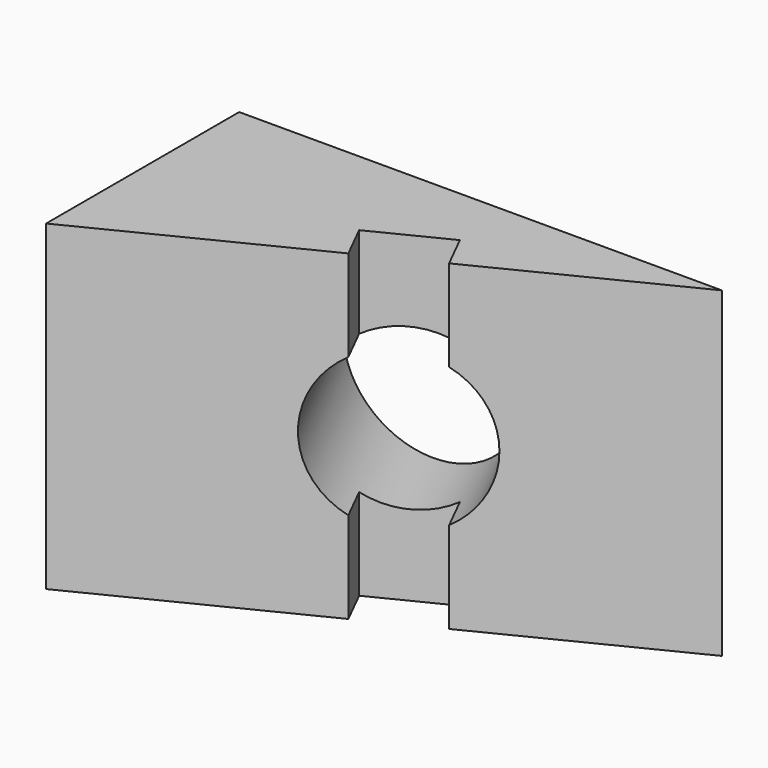
from build123d import *

# Parameters (mm, degrees)
F1_DEPTH = 101.6
F2_W     = 25.4
F2_H     = 101.6
F3_DEPTH = 12.7
F4_R     = 25.4
F5_DEPTH = 25.4
F6_DEPTH = 192.786


with BuildPart() as f1:
    # F0 (on Top) → F1 (new body)
    with BuildSketch(Plane.XY):
        Polygon((152.4, 0), (0, 0), (0, -76.2), align=None)
    extrude(amount=F1_DEPTH)

    # F2 (on face) → F3 (cut)
    with BuildSketch(Plane(origin=(30.48, -60.96, 0), x_dir=(0.894427191, 0.4472135955, 0), z_dir=(0.4472135955, -0.894427191, 0))):
        with Locations((54.8223240229, 50.8)):
            Rectangle(F2_W, F2_H)
    extrude(amount=-F3_DEPTH, mode=Mode.SUBTRACT)

    # F4 (on face) → F5 (join)
    with BuildSketch(Plane(origin=(30.48, -60.96, 0), x_dir=(0.894427191, 0.4472135955, 0), z_dir=(0.4472135955, -0.894427191, 0))):
        with Locations((54.8223240229, 50.8)):
            Circle(F4_R)
    extrude(amount=F5_DEPTH)

    # F6 (cut): a face of the model
    f6_faces = [f1.faces().sort_by_distance(p)[0] for p in [
        (90.8738026056, -59.1611620115, 50.8),
    ]]
    extrude(f6_faces, amount=-F6_DEPTH, mode=Mode.SUBTRACT)


solid = f1.part
